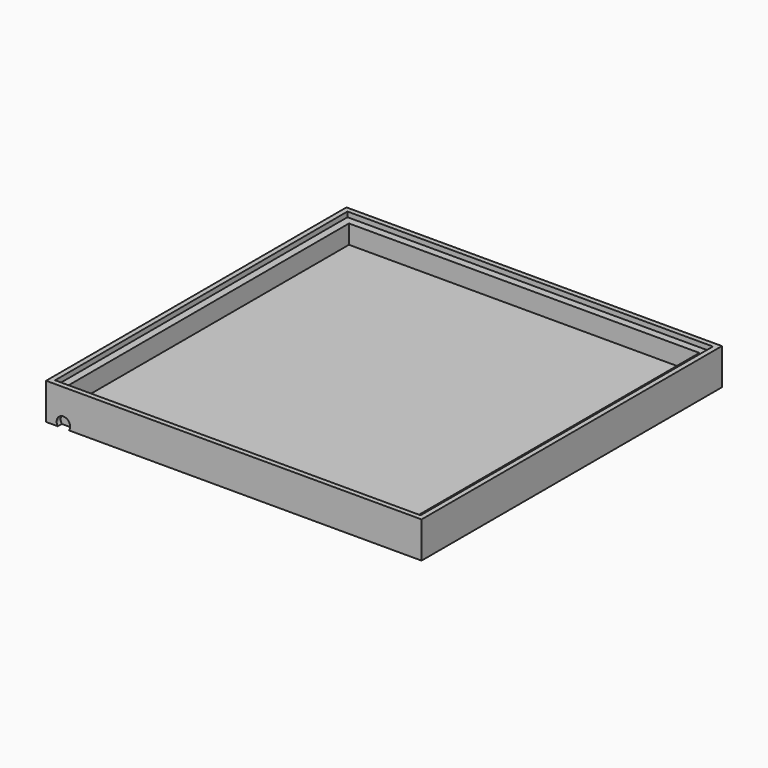
from build123d import *

# Parameters (mm, degrees)
F0_W     = 300
F0_H     = 300
F1_DEPTH = 25
F3_T     = -10
F4_DEPTH = 4
F5_W     = 300
F5_H     = 300
F5_W_2   = 292
F5_H_2   = 292
F6_DEPTH = 4


with BuildPart() as f1:
    # F0 (on Top) → F1 (new body)
    with BuildSketch(Plane.XY):
        with Locations((95.5334320664, 89.3530972302)):
            Rectangle(F0_W, F0_H)
    extrude(amount=F1_DEPTH)

    # F3
    f3_openings = [f1.faces().sort_by_distance(p)[0] for p in [
        (95.533432, 89.353097, 25),
    ]]
    offset(amount=F3_T, openings=f3_openings)

    # F2 (on face) → F4 (cut)
    with BuildSketch(Plane.XZ.offset(60.6469027698)):
        with BuildLine():
            ThreePointArc((-36.1368541132, 0), (-35.4589387768, 1.4324265188), (-35.2262808864, 2.9999995604))
            ThreePointArc((-35.2262808864, 2.9999995604), (-42.1910810125, 8.1645687544), (-45.1101618284, 0))
            Line((-45.1101618284, 0), (-36.1368541132, 0))
        make_face()
    extrude(amount=-F4_DEPTH, mode=Mode.SUBTRACT)

    # F5 (on face) → F6 (join)
    with BuildSketch(Plane.XY.offset(25)):
        with Locations((95.5334320664, 89.3530972302)):
            Rectangle(F5_W, F5_H)
        with Locations((95.5334320664, 89.3530972302)):
            Rectangle(F5_W_2, F5_H_2, mode=Mode.SUBTRACT)
    extrude(amount=F6_DEPTH)


solid = f1.part
